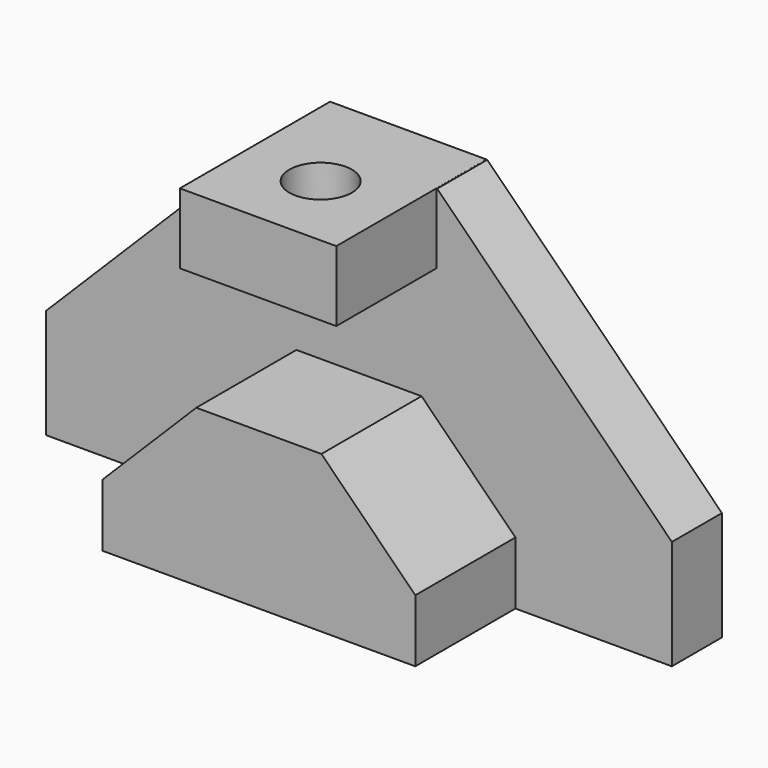
from build123d import *

# Parameters (mm, degrees)
F1_DEPTH = 12.7
F3_DEPTH = 38.1
F4_W     = 31.75
F4_H     = 14.2875
F5_DEPTH = 38.1
F6_R     = 6.35
F7_DEPTH = 14.2875


with BuildPart() as f1:
    # F0 (on Front) → F1 (new body)
    with BuildSketch(Plane.XZ):
        Polygon((-74.188948, 10.506319), (-74.188948, -11.718681), (52.811052, -11.718681), (52.811052, 10.506319), (5.186052, 58.131319), (-26.563948, 58.131319), align=None)
    extrude(amount=F1_DEPTH)

    # F2 (on Front) → F3 (join)
    with BuildSketch(Plane.XZ):
        Polygon((-42.438948, 0.981418), (-42.438948, -11.718582), (21.061052, -11.718582), (21.061052, 0.981418), (2.011052, 20.031418), (-23.388948, 20.031418), align=None)
    extrude(amount=F3_DEPTH)

    # F4 (on Front) → F5 (join)
    with BuildSketch(Plane.XZ):
        with Locations((-10.846151, 50.999742)):
            Rectangle(F4_W, F4_H)
    extrude(amount=F5_DEPTH)

    # F6 (on face) → F7 (cut)
    with BuildSketch(Plane.XY.offset(58.143492)):
        with Locations((-10.846151, -22.225)):
            Circle(F6_R)
    extrude(amount=-F7_DEPTH, mode=Mode.SUBTRACT)


solid = f1.part
